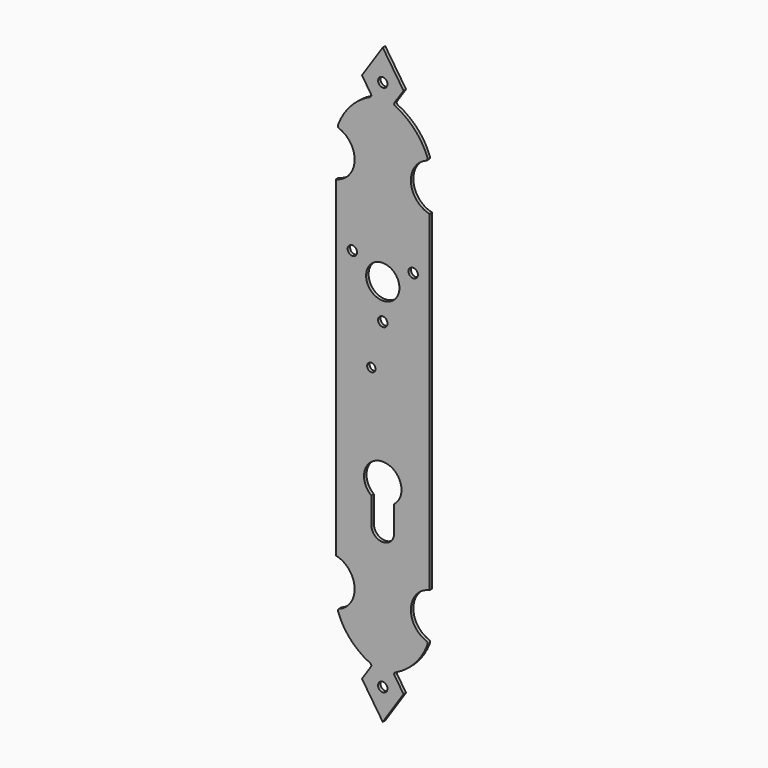
from build123d import *

# Parameters (mm, degrees)
F0_R     = 2.25
F0_R_2   = 8
F1_DEPTH = 1.5
F2_R     = 2
F3_DEPTH = 1.5


with BuildPart() as f1:
    # F0 (on Front) → F1 (new body)
    with BuildSketch(Plane.XZ):
        with BuildLine():
            ThreePointArc((20.917298, -101.5), (13.529686, -89.911597), (22.5, -79.5))
            Line((22.5, -79.5), (22.5, 79.5))
            ThreePointArc((22.5, 79.5), (13.529686, 89.911597), (20.917298, 101.5))
            ThreePointArc((20.917298, 101.5), (21.471436, 102.020043), (21.5, 102.77945))
            ThreePointArc((21.5, 102.77945), (15.448865, 112.710734), (6.075523, 119.594561))
            ThreePointArc((6.075523, 119.594561), (5.536314, 120.232961), (5.670047, 121.057834))
            Line((5.670047, 121.057834), (10, 127.5))
            Line((10, 127.5), (0, 142.5))
            Line((0, 142.5), (-10, 127.5))
            Line((-10, 127.5), (-5.670047, 121.057834))
            ThreePointArc((-5.670047, 121.057834), (-5.536314, 120.232961), (-6.075523, 119.594561))
            ThreePointArc((-6.075523, 119.594561), (-15.448865, 112.710734), (-21.5, 102.77945))
            ThreePointArc((-21.5, 102.77945), (-21.471436, 102.020043), (-20.917298, 101.5))
            ThreePointArc((-20.917298, 101.5), (-13.529686, 89.911597), (-22.5, 79.5))
            Line((-22.5, 79.5), (-22.5, -79.5))
            ThreePointArc((-22.5, -79.5), (-13.529686, -89.911597), (-20.917298, -101.5))
            ThreePointArc((-20.917298, -101.5), (-21.471436, -102.020043), (-21.5, -102.77945))
            ThreePointArc((-21.5, -102.77945), (-15.448865, -112.710734), (-6.075523, -119.594561))
            ThreePointArc((-6.075523, -119.594561), (-5.536314, -120.232961), (-5.670047, -121.057834))
            Line((-5.670047, -121.057834), (-10, -127.5))
            Line((-10, -127.5), (0, -142.5))
            Line((0, -142.5), (10, -127.5))
            Line((10, -127.5), (5.670047, -121.057834))
            ThreePointArc((5.670047, -121.057834), (5.536314, -120.232961), (6.075523, -119.594561))
            ThreePointArc((6.075523, -119.594561), (15.448865, -112.710734), (21.5, -102.77945))
            ThreePointArc((21.5, -102.77945), (21.471436, -102.020043), (20.917298, -101.5))
        make_face()
        with Locations((0, -127.75)):
            Circle(F0_R, mode=Mode.SUBTRACT)
        with Locations((-14.614179, 51.9375)):
            Circle(F0_R, mode=Mode.SUBTRACT)
        with Locations((0, 26.625)):
            Circle(F0_R, mode=Mode.SUBTRACT)
        with Locations((0, 43.5)):
            Circle(F0_R_2, mode=Mode.SUBTRACT)
        with Locations((14.614179, 51.9375)):
            Circle(F0_R, mode=Mode.SUBTRACT)
        with Locations((0, 127.75)):
            Circle(F0_R, mode=Mode.SUBTRACT)
    extrude(amount=F1_DEPTH)

    # F2 (on face) → F3 (cut, through all)
    with BuildSketch(Plane.XZ.offset(1.5)):
        with BuildLine():
            Line((5.5, -61), (5.5, -48.623903))
            ThreePointArc((5.5, -48.623903), (0, -32.5), (-5.5, -48.623903))
            Line((-5.5, -48.623903), (-5.5, -61))
            ThreePointArc((-5.5, -61), (0, -66.5), (5.5, -61))
        make_face()
        with Locations((-5.5, 5.5)):
            Circle(F2_R)
    extrude(amount=-F3_DEPTH, mode=Mode.SUBTRACT)


solid = f1.part
